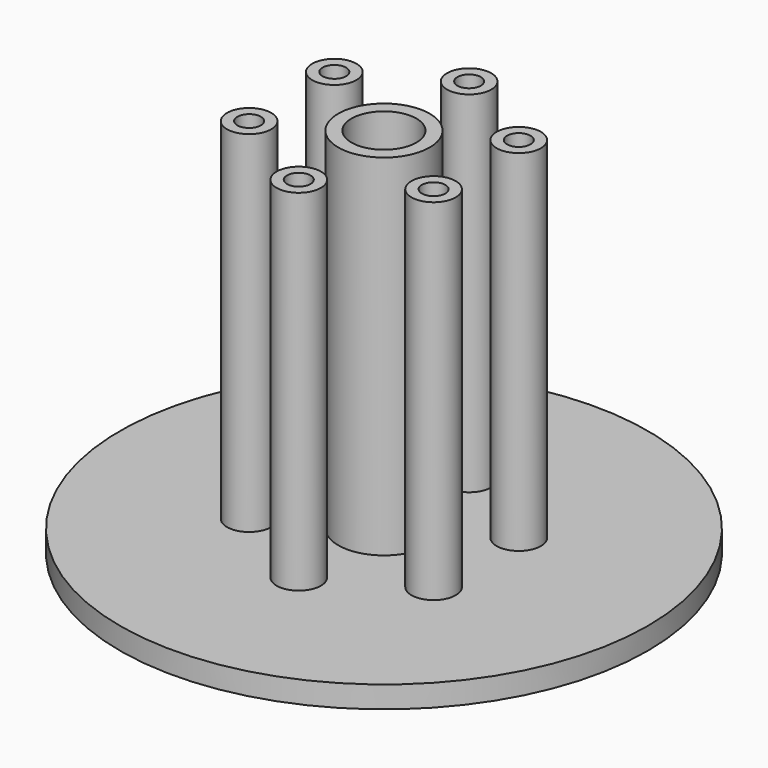
from build123d import *

# Parameters (mm, degrees)
F0_R     = 60.286911
F0_R_2   = 7.419819
F1_DEPTH = 5
F2_R     = 10.451192
F2_R_2   = 7.419819
F2_R_3   = 5.05785
F2_R_4   = 2.680452
F3_DEPTH = 80


with BuildPart() as f1:
    # F0 (on Top) → F1 (new body)
    with BuildSketch(Plane.XY):
        Circle(F0_R)
        Circle(F0_R_2, mode=Mode.SUBTRACT)
    extrude(amount=F1_DEPTH)

    # F2 (on face) → F3 (join)
    with BuildSketch(Plane.XY.offset(5)):
        Circle(F2_R)
        Circle(F2_R_2, mode=Mode.SUBTRACT)
        with Locations((0, -24.324838)):
            Circle(F2_R_3)
        with Locations((0, -24.324838)):
            Circle(F2_R_4, mode=Mode.SUBTRACT)
        with Locations((-21.065928, -12.162419)):
            Circle(F2_R_3)
        with Locations((-21.065928, -12.162419)):
            Circle(F2_R_4, mode=Mode.SUBTRACT)
        with Locations((0, 24.324838)):
            Circle(F2_R_3)
        with Locations((0, 24.324838)):
            Circle(F2_R_4, mode=Mode.SUBTRACT)
        with Locations((-21.065928, 12.162419)):
            Circle(F2_R_3)
        with Locations((-21.065928, 12.162419)):
            Circle(F2_R_4, mode=Mode.SUBTRACT)
        with Locations((21.065928, 12.162419)):
            Circle(F2_R_3)
        with Locations((21.065928, 12.162419)):
            Circle(F2_R_4, mode=Mode.SUBTRACT)
        with Locations((21.065928, -12.162419)):
            Circle(F2_R_3)
        with Locations((21.065928, -12.162419)):
            Circle(F2_R_4, mode=Mode.SUBTRACT)
    extrude(amount=F3_DEPTH)


solid = f1.part
